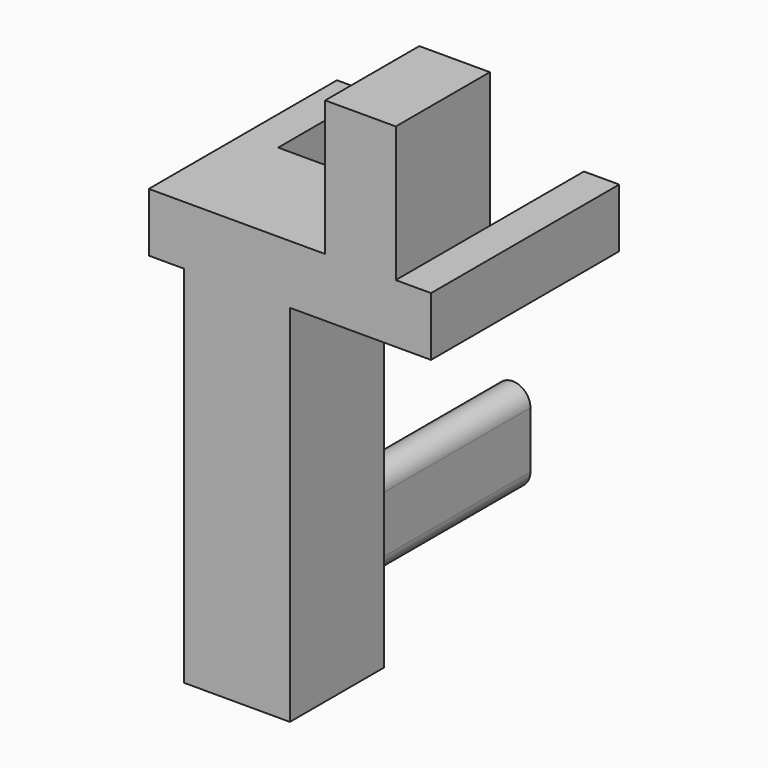
from build123d import *

# Parameters (mm, degrees)
EXTRUDE009_DEPTH           = 20
EXTRUDE009_PLACEMENT_ANGLE = 90
BOX031_W                   = 20
BOX031_H                   = 3
BOX031_DEPTH               = 5
BOX028_W                   = 10
BOX028_H                   = 6
BOX028_DEPTH               = 16.5
BOX029_W                   = 10
BOX029_H                   = 6
BOX029_DEPTH               = 5
BOX030_W                   = 20
BOX030_H                   = 3
BOX030_DEPTH               = 5
BOX024_W                   = 10
BOX024_H                   = 9
BOX024_DEPTH               = 36


with BuildPart() as extrude009:
    # Sketch013 → Extrude009 (new body)
    with BuildSketch(Plane.XZ):
        with BuildLine():
            ThreePointArc((-4.8, 1.5), (-6.3, 0), (-4.8, -1.5))
            Line((-4.8, -1.5), (0, -1.5))
            ThreePointArc((0, -1.5), (1.5, 0), (0, 1.5))
            Line((-4.8, 1.5), (0, 1.5))
        make_face()
    extrude(amount=EXTRUDE009_DEPTH)


with BuildPart() as extrude009_1:
    # Extrude009 placement: moved
    add(extrude009.part.moved(Location((75.5, 36.25, -27))).rotate(Axis((75.5, 36.25, -27), (0, -1, 0)), EXTRUDE009_PLACEMENT_ANGLE))


with BuildPart() as detector_exclusion005:
    # Box031 → Box031 (new body)
    with BuildSketch(Plane(origin=(89.75, 26, -6), x_dir=(0, -1, 0), z_dir=(0, 0, 1))):
        with Locations((10, 1.5)):
            Rectangle(BOX031_W, BOX031_H)
    extrude(amount=BOX031_DEPTH)


with BuildPart() as detector_exclusion002:
    # Box028 → Box028 (new body)
    with BuildSketch(Plane(origin=(83.75, 16, -6), x_dir=(0, -1, 0), z_dir=(0, 0, 1))):
        with Locations((5, 3)):
            Rectangle(BOX028_W, BOX028_H)
    extrude(amount=BOX028_DEPTH)


with BuildPart() as detector_exclusion003:
    # Box029 → Box029 (new body)
    with BuildSketch(Plane(origin=(79.75, 16, -6), x_dir=(0, -1, 0), z_dir=(0, 0, 1))):
        with Locations((5, 3)):
            Rectangle(BOX029_W, BOX029_H)
    extrude(amount=BOX029_DEPTH)


with BuildPart() as detector_exclusion004:
    # Box030 → Box030 (new body)
    with BuildSketch(Plane(origin=(68.75, 26, -6), x_dir=(0, -1, 0), z_dir=(0, 0, 1))):
        with Locations((10, 1.5)):
            Rectangle(BOX030_W, BOX030_H)
    extrude(amount=BOX030_DEPTH)


with BuildPart() as fusion011:
    # Box024 → Box024 (new body)
    with BuildSketch(Plane(origin=(71.75, 16, -37), x_dir=(0, -1, 0), z_dir=(0, 0, 1))):
        with Locations((5, 4.5)):
            Rectangle(BOX024_W, BOX024_H)
    extrude(amount=BOX024_DEPTH)

    # Fusion007: union detector_exclusion005, detector_exclusion002, detector_exclusion003, detector_exclusion004
    add(detector_exclusion005.part)
    add(detector_exclusion002.part)
    add(detector_exclusion003.part)
    add(detector_exclusion004.part)

    # Fusion011: union Extrude009
    add(extrude009_1.part)


solid = fusion011.part
